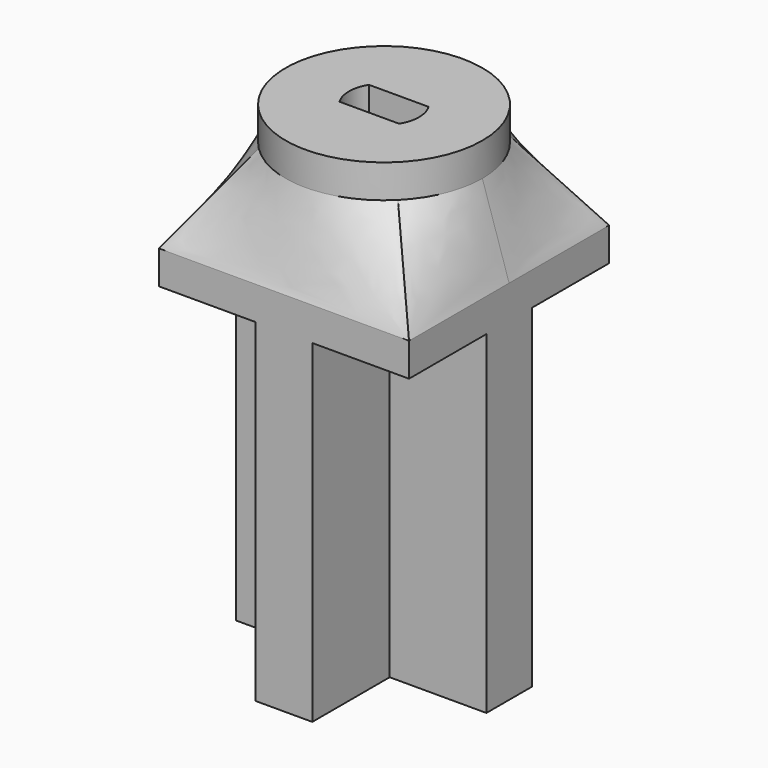
from build123d import *

# Parameters (mm, degrees)
F0_R      = 3.9
F0_R_2    = 2.4
F1_DEPTH  = 2
F0_R_3    = 5.9
F2_DEPTH  = 2
F4_W      = 15
F4_H      = 15
F5_DEPTH  = 2
F2_FACE_R = 5.9
F5_FACE_W = 15
F5_FACE_H = 15
F8_DEPTH  = 20
F10_DEPTH = 10


with BuildPart() as f1:
    # F0 (on Top) → F1 (new body)
    with BuildSketch(Plane.XY):
        Circle(F0_R)
        Circle(F0_R_2, mode=Mode.SUBTRACT)
        Circle(F0_R_2)
    extrude(amount=F1_DEPTH)

    # F0 (on Top) → F2 (join)
    with BuildSketch(Plane.XY):
        Circle(F0_R_3)
        Circle(F0_R, mode=Mode.SUBTRACT)
    extrude(amount=F2_DEPTH)



with BuildPart() as f5:
    # F4 (on offset) → F5 (new body)
    with BuildSketch(Plane.XY.offset(-5)):
        Rectangle(F4_W, F4_H)
    extrude(amount=-F5_DEPTH)


with BuildPart() as f1_1:
    add(f1.part)

    add(f5.part)  # F6 merges F5
    # F2_face (on face) → F6 section 0
    with BuildSketch(Plane(origin=(0, 0, 0), x_dir=(1, 0, 0), z_dir=(0, 0, -1))):
        Circle(F2_FACE_R)
    # F5_face (on face) → F6 section 1
    with BuildSketch(Plane.XY.offset(-5)):
        Rectangle(F5_FACE_W, F5_FACE_H)
    loft()

    # F7 (on face) → F8 (join)
    with BuildSketch(Plane(origin=(0, 0, -7), x_dir=(1, 0, 0), z_dir=(0, 0, -1))):
        Polygon((-7.5, 1.7), (-7.5, -1.7), (-1.7, -1.7), (-1.7, -7.5), (1.7, -7.5), (1.7, -1.7), (7.5, -1.7), (7.5, 1.7), (1.7, 1.7), (1.7, 7.5), (-1.7, 7.5), (-1.7, 1.7), align=None)
    extrude(amount=F8_DEPTH)

    # F9 (on face) → F10 (cut)
    with BuildSketch(Plane.XY.offset(2)):
        with BuildLine():
            ThreePointArc((1.788854382, -1.1), (2.020716977, -0.5715793024), (2.1, 0))
            ThreePointArc((2.1, 0), (2.020716977, 0.5715793024), (1.788854382, 1.1))
            Line((1.788854382, 1.1), (-1.788854382, 1.1))
            ThreePointArc((-1.788854382, 1.1), (-2.1, 0), (-1.788854382, -1.1))
            Line((-1.788854382, -1.1), (1.788854382, -1.1))
        make_face()
    extrude(amount=-F10_DEPTH, mode=Mode.SUBTRACT)


solid = f1_1.part
